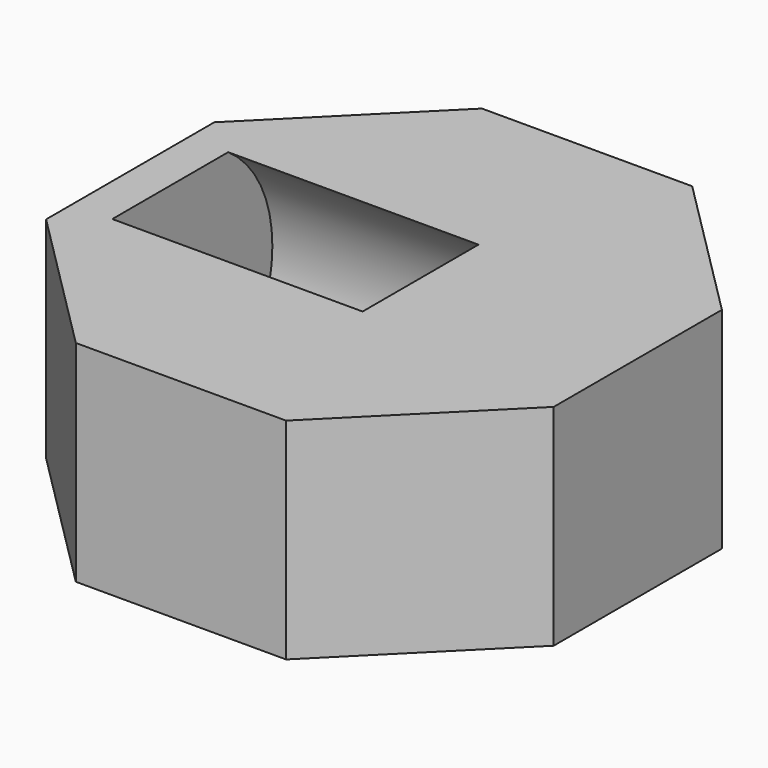
from build123d import *

# Parameters (mm, degrees)
F0_W     = 25
F0_H     = 25
F1_DEPTH = 21
F3_START = -4
F2_R     = 12.75
F3_DEPTH = 25


with BuildPart() as f1:
    # F0 (on Top) → F1 (new body)
    with BuildSketch(Plane.XY):
        Polygon((25.3492424049, -10.5), (25.3492424049, 10.5), (10.5, 25.3492424049), (-10.5, 25.3492424049), (-25.3492424049, 10.5), (-25.3492424049, -10.5), (-10.5, -25.3492424049), (10.5, -25.3492424049), align=None)
        Rectangle(F0_W, F0_H, mode=Mode.SUBTRACT)
        Rectangle(F0_W, F0_H)
    extrude(amount=F1_DEPTH)

    # F2 (on face) → F3 (cut)
    with BuildSketch(Plane(origin=(-25.3492424049, 0, 0), x_dir=(0, -1, 0), z_dir=(-1, 0, 0)).offset(F3_START)):
        with Locations((0, 10.5)):
            Circle(F2_R)
    extrude(amount=-F3_DEPTH, mode=Mode.SUBTRACT)


solid = f1.part
